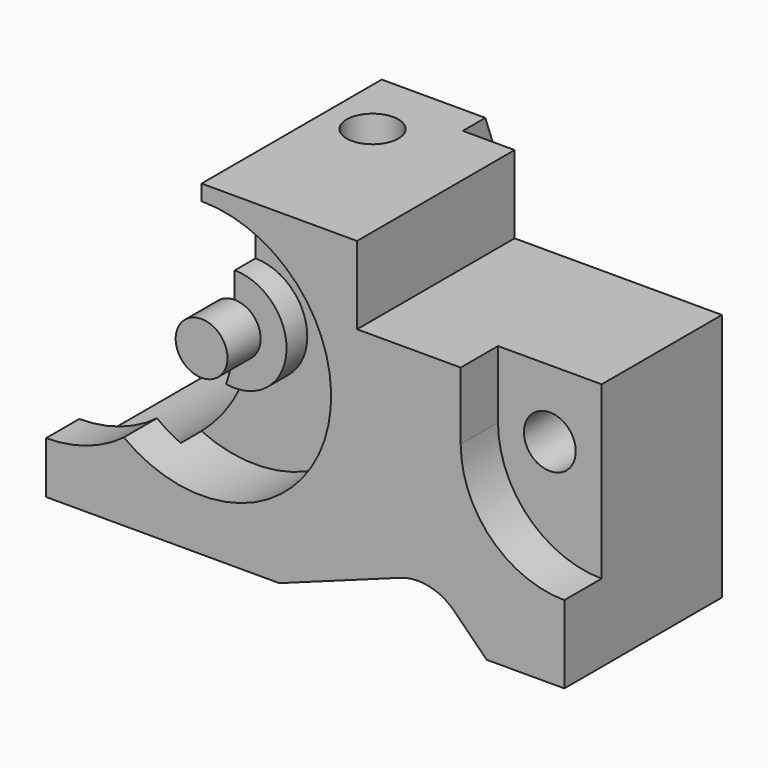
from build123d import *

# Parameters (mm, degrees)
F2_DEPTH  = 50
F4_DEPTH  = 9
F5_R      = 5
F6_DEPTH  = 41.001
F7_R      = 25
F8_DEPTH  = 13
F9_R      = 10
F10_DEPTH = 5
F11_R     = 5
F12_DEPTH = 8
F13_R     = 25
F14_DEPTH = 50.001
F16_DEPTH = 42
F18_DEPTH = 8
F19_R     = 5
F20_DEPTH = 63.001
F21_W     = 50
F21_H     = 12
F22_DEPTH = 63.001
F24_DEPTH = 70.001


with BuildPart() as f2:
    # F1 (on Front) → F2 (new body)
    with BuildSketch(Plane.XZ):
        with BuildLine():
            Line((-15, 0), (0, 0))
            Line((0, 0), (0, 48))
            Line((0, 48), (-40, 48))
            Line((-40, 48), (-40, 63))
            Line((-40, 63), (-100, 63))
            Line((-100, 63), (-100, 0))
            Line((-100, 0), (-55, 0))
            Line((-55, 0), (-31.6603490669, 8.4949382178))
            ThreePointArc((-31.6603490669, 8.4949382178), (-26.0757514943, 8.8609720811), (-21.1690798218, 6.1690798218))
            Line((-21.1690798218, 6.1690798218), (-15, 0))
        make_face()
    extrude(amount=F2_DEPTH)

    # F3 (on face) → F4 (cut)
    with BuildSketch(Plane.XZ.offset(50)):
        with BuildLine():
            Line((0, 48), (-20, 48))
            Line((-20, 48), (-20, 35))
            ThreePointArc((-20, 35), (-14.1421356237, 20.8578643763), (0, 15))
            Line((0, 15), (0, 48))
        make_face()
    extrude(amount=-F4_DEPTH, mode=Mode.SUBTRACT)

    # F5 (on face) → F6 (cut, through all)
    with BuildSketch(Plane.XZ.offset(41)):
        with Locations((-10, 35)):
            Circle(F5_R)
    extrude(amount=-F6_DEPTH, mode=Mode.SUBTRACT)

    # F7 (on face) → F8 (cut)
    with BuildSketch(Plane.XZ.offset(50)):
        with Locations((-70, 35)):
            Circle(F7_R)
    extrude(amount=-F8_DEPTH, mode=Mode.SUBTRACT)

    # F9 (on face) → F10 (join)
    with BuildSketch(Plane.XZ.offset(37)):
        with Locations((-70, 35)):
            Circle(F9_R)
    extrude(amount=F10_DEPTH)

    # F11 (on face) → F12 (join)
    with BuildSketch(Plane.XZ.offset(42)):
        with Locations((-70, 35)):
            Circle(F11_R)
    extrude(amount=F12_DEPTH)

    # F13 (on face) → F14 (cut, through all)
    with BuildSketch(Plane.XZ.offset(50)):
        with Locations((-100, 35)):
            Circle(F13_R)
    extrude(amount=-F14_DEPTH, mode=Mode.SUBTRACT)

    # F15 (on face) → F16 (cut)
    with BuildSketch(Plane(origin=(0, 0, 0), x_dir=(-1, 0, 0), z_dir=(0, 1, 0))):
        with BuildLine():
            Line((70, 73.9136583427), (70, 35))
            ThreePointArc((70, 35), (121.2132034356, 13.7867965644), (100, 65))
            Line((100, 65), (100, 73.9136583427))
            Line((100, 73.9136583427), (70, 73.9136583427))
        make_face()
    extrude(amount=-F16_DEPTH, mode=Mode.SUBTRACT)

    # F17 (on face) → F18 (cut, through all)
    with BuildSketch(Plane(origin=(0, -42, 0), x_dir=(-1, 0, 0), z_dir=(0, 1, 0))):
        with BuildLine():
            Line((100, 63), (70, 63))
            Line((70, 63), (70, 60))
            ThreePointArc((70, 60), (77.9056941504, 58.7170824513), (85, 55))
            ThreePointArc((85, 55), (92.0943058496, 58.7170824513), (100, 60))
            Line((100, 60), (100, 63))
        make_face()
    extrude(amount=-F18_DEPTH, mode=Mode.SUBTRACT)

    # F19 (on face) → F20 (cut, through all)
    with BuildSketch(Plane.XY.offset(63)):
        with Locations((-61, -20)):
            Circle(F19_R)
    extrude(amount=-F20_DEPTH, mode=Mode.SUBTRACT)

    # F21 (on face) → F22 (cut, through all)
    with BuildSketch(Plane.XY.offset(63)):
        with Locations((-25, -6)):
            Rectangle(F21_W, F21_H)
    extrude(amount=-F22_DEPTH, mode=Mode.SUBTRACT)

    # F23 (on face) → F24 (cut, through all)
    with BuildSketch(Plane(origin=(-70, 0, 0), x_dir=(0, -1, 0), z_dir=(-1, 0, 0))):
        Polygon((6.5514642168, 63), (0, 63), (0, 45), align=None)
    extrude(amount=-F24_DEPTH, mode=Mode.SUBTRACT)


solid = f2.part
